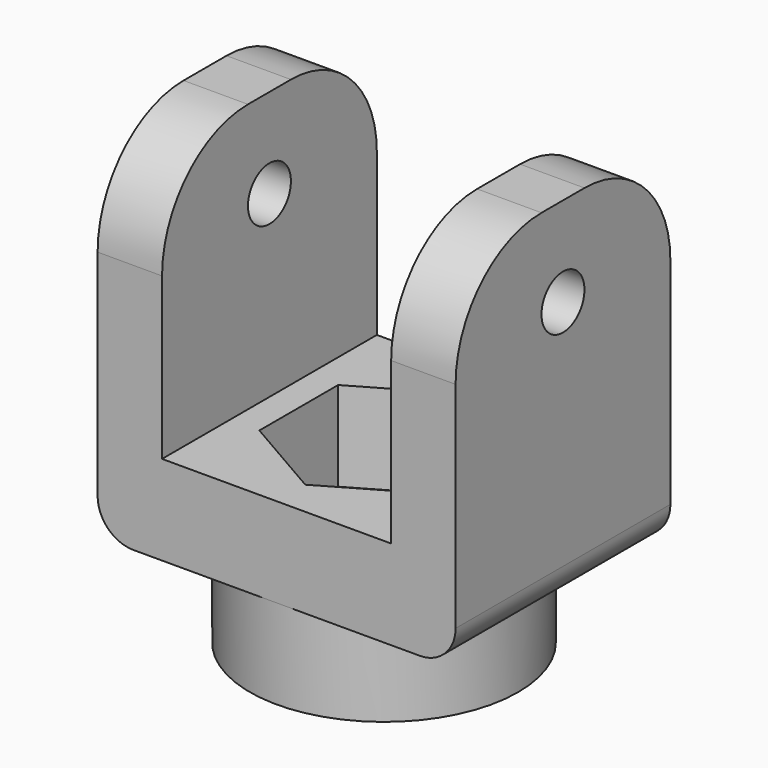
from build123d import *

# Parameters (mm, degrees)
SKETCH_R     = 7.5
SKETCH_R_2   = 3
PAD_DEPTH    = 5
SKETCH001_W  = 20
SKETCH001_H  = 15
PAD001_DEPTH = 5
SKETCH002_W  = 3.6
SKETCH002_H  = 15
PAD002_DEPTH = 15
SKETCH003_R  = 1.5
POCKET_DEPTH = 20.001
FILLET_R     = 2
FILLET001_R  = 6


with BuildPart() as part:
    # Sketch → Pad (new body)
    with BuildSketch(Plane.XY):
        Circle(SKETCH_R)
        Circle(SKETCH_R_2, mode=Mode.SUBTRACT)
    extrude(amount=PAD_DEPTH)

    # Sketch001 (on Face4 of Pad) → Pad001 (join)
    with BuildSketch(Plane.XY.offset(5)):
        Rectangle(SKETCH001_W, SKETCH001_H)
        Polygon((4.76314, -2.75), (4.76314, 2.75), (0, 5.5), (-4.76314, 2.75), (-4.76314, -2.75), (0, -5.5), align=None, mode=Mode.SUBTRACT)
    extrude(amount=PAD001_DEPTH)

    # Sketch002 (on Face11 of Pad001) → Pad002 (join)
    with BuildSketch(Plane.XY.offset(10)):
        with Locations((-8.2, 0)):
            Rectangle(SKETCH002_W, SKETCH002_H)
        with Locations((8.2, 0)):
            Rectangle(SKETCH002_W, SKETCH002_H)
    extrude(amount=PAD002_DEPTH)

    # Sketch003 (on Face17 of Pad002) → Pocket (cut, through all)
    with BuildSketch(Plane(origin=(-10, 0, 0), x_dir=(0, -1, 0), z_dir=(-1, 0, 0))):
        with Locations((0, 20)):
            Circle(SKETCH003_R)
    extrude(amount=-POCKET_DEPTH, mode=Mode.SUBTRACT)

    # Fillet
    fillet_edges = [part.edges().sort_by_distance(p)[0] for p in [
        (-10, 0, 5),
        (10, 0, 5),
    ]]
    fillet(fillet_edges, radius=FILLET_R)

    # Fillet001
    fillet001_edges = [part.edges().sort_by_distance(p)[0] for p in [
        (-8.2, -7.5, 25),
        (-8.2, 7.5, 25),
        (8.2, 7.5, 25),
        (8.2, -7.5, 25),
    ]]
    fillet(fillet001_edges, radius=FILLET001_R)


solid = part.part
